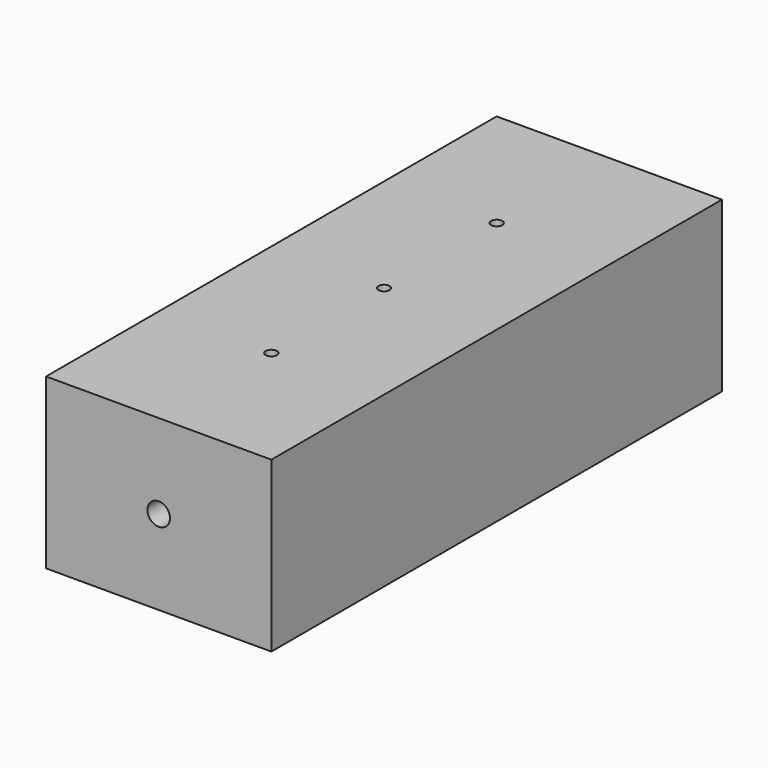
from build123d import *

# Parameters (mm, degrees)
F0_W     = 40
F0_H     = 30
F0_R     = 2
F1_DEPTH = 100
F2_R     = 1
F3_DEPTH = 30
F4_R     = 2.55
F5_DEPTH = 8
F6_R     = 1.5
F7_R     = 1.5
F8_R     = 1.5


with BuildPart() as f1:
    # F0 (on Front) → F1 (new body)
    with BuildSketch(Plane.XZ):
        Rectangle(F0_W, F0_H)
        Circle(F0_R, mode=Mode.SUBTRACT)
    extrude(amount=F1_DEPTH)

    # F2 (on face) → F3 (cut)
    with BuildSketch(Plane.XY.offset(15)):
        with Locations((0, -25)):
            Circle(F2_R)
        with Locations((0, -50)):
            Circle(F2_R)
        with Locations((0, -75)):
            Circle(F2_R)
    extrude(amount=-F3_DEPTH, mode=Mode.SUBTRACT)

    # F4 (on face) → F5 (cut)
    with BuildSketch(Plane(origin=(0, 0, -15), x_dir=(1, 0, 0), z_dir=(0, 0, -1))):
        with Locations((0, 25)):
            Circle(F4_R)
        with Locations((0, 50)):
            Circle(F4_R)
        with Locations((0, 75)):
            Circle(F4_R)
    extrude(amount=-F5_DEPTH, mode=Mode.SUBTRACT)

    # F6
    f6_edges = [f1.edges().sort_by_distance(p)[0] for p in [
        (-2.55, -25, -7),
    ]]
    fillet(f6_edges, radius=F6_R)

    # F7
    f7_edges = [f1.edges().sort_by_distance(p)[0] for p in [
        (-2.55, -50, -7),
    ]]
    fillet(f7_edges, radius=F7_R)

    # F8
    f8_edges = [f1.edges().sort_by_distance(p)[0] for p in [
        (-2.55, -75, -7),
    ]]
    fillet(f8_edges, radius=F8_R)


solid = f1.part
